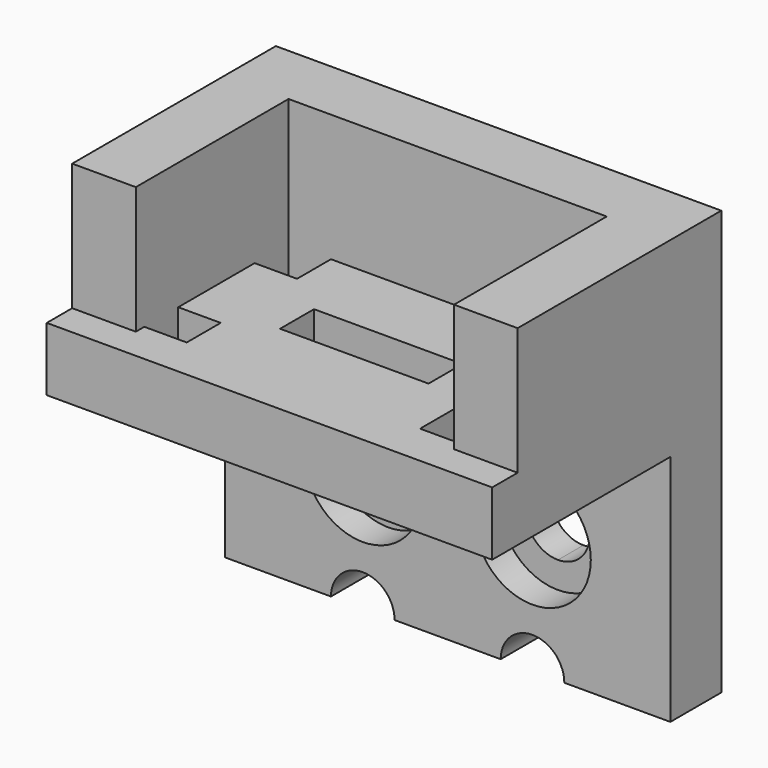
from build123d import *

# Parameters (mm, degrees)
F0_DEPTH = 3
F5_DEPTH = 9
F1_W     = 7
F1_H     = 2
F6_DEPTH = 3
F2_R     = 2.75
F2_R_2   = 1.5
F3_DEPTH = 1.5


with BuildPart() as f0:
    # F4 (on Front) → F0 (new body)
    with BuildSketch(Plane.XZ):
        with BuildLine():
            ThreePointArc((-5.3789273798, 23.6677408814), (-6.4395875516, 26.2284010532), (-3.8789273798, 25.1677408814))
            Line((-3.8789273798, 25.1677408814), (1.1210726202, 25.1677408814))
            ThreePointArc((1.1210726202, 25.1677408814), (2.6210726202, 26.6677408814), (4.1210726202, 25.1677408814))
            ThreePointArc((4.1210726202, 25.1677408814), (3.6817327919, 24.1070807097), (2.6210726202, 23.6677408814))
            Line((2.6210726202, 23.6677408814), (2.6210726202, 21.1677408814))
            ThreePointArc((2.6210726202, 21.1677408814), (3.6817327919, 20.7284010532), (4.1210726202, 19.6677408814))
            Line((4.1210726202, 19.6677408814), (9.1210726202, 19.6677408814))
            Line((9.1210726202, 19.6677408814), (9.1210726202, 30.6677408814))
            Line((9.1210726202, 30.6677408814), (-11.8789273798, 30.6677408814))
            Line((-11.8789273798, 30.6677408814), (-11.8789273798, 19.6677408814))
            Line((-11.8789273798, 19.6677408814), (-6.8789273798, 19.6677408814))
            ThreePointArc((-6.8789273798, 19.6677408814), (-6.4395875516, 20.7284010532), (-5.3789273798, 21.1677408814))
            Line((-5.3789273798, 21.1677408814), (-5.3789273798, 23.6677408814))
        make_face()
        with BuildLine():
            Line((1.1210726202, 25.1677408814), (-3.8789273798, 25.1677408814))
            ThreePointArc((-3.8789273798, 25.1677408814), (-4.3182672081, 24.1070807097), (-5.3789273798, 23.6677408814))
            Line((-5.3789273798, 23.6677408814), (-5.3789273798, 21.1677408814))
            ThreePointArc((-5.3789273798, 21.1677408814), (-4.3182672081, 20.7284010532), (-3.8789273798, 19.6677408814))
            Line((-3.8789273798, 19.6677408814), (1.1210726202, 19.6677408814))
            ThreePointArc((1.1210726202, 19.6677408814), (1.5604124484, 20.7284010532), (2.6210726202, 21.1677408814))
            Line((2.6210726202, 21.1677408814), (2.6210726202, 23.6677408814))
            ThreePointArc((2.6210726202, 23.6677408814), (1.5604124484, 24.1070807097), (1.1210726202, 25.1677408814))
        make_face()
    extrude(amount=F0_DEPTH)

    # F1 (on face) → F5 (join)
    with BuildSketch(Plane.XY.offset(30.6677408814)):
        Polygon((9.1210726202, 0), (-11.8789273798, 0), (-11.8789273798, -3), (-8.8789273798, -3), (-6.8789273798, -3), (4.1210726202, -3), (6.1210726202, -3), (9.1210726202, -3), align=None)
        Polygon((-8.8789273798, -3), (-11.8789273798, -3), (-11.8789273798, -12), (-8.8789273798, -12), (-8.8789273798, -11.5), (-8.8789273798, -9.5), (-8.8789273798, -5), align=None)
        Polygon((9.1210726202, -12), (9.1210726202, -3), (6.1210726202, -3), (6.1210726202, -5), (6.1210726202, -9.5), (6.1210726202, -11.5), (6.1210726202, -12), align=None)
    extrude(amount=F5_DEPTH)

    # F1 (on face) → F6 (join)
    with BuildSketch(Plane.XY.offset(30.6677408814)):
        Polygon((-8.8789273798, -11.5), (-8.8789273798, -12), (4.6210726202, -12), (6.1210726202, -12), (6.1210726202, -11.5), (4.1210726202, -11.5), (4.1210726202, -9.5), (6.1210726202, -9.5), (6.1210726202, -5), (4.1210726202, -5), (4.1210726202, -3), (-6.8789273798, -3), (-6.8789273798, -5), (-8.8789273798, -5), (-8.8789273798, -9.5), (-6.8789273798, -9.5), (-6.8789273798, -11.5), align=None)
        with Locations((-1.3789273798, -7.5)):
            Rectangle(F1_W, F1_H, mode=Mode.SUBTRACT)
        Polygon((-8.8789273798, -12), (-11.8789273798, -12), (-11.8789273798, -13.5), (9.1210726202, -13.5), (9.1210726202, -12), (6.1210726202, -12), (4.6210726202, -12), align=None)
    extrude(amount=F6_DEPTH)

    # F2 (on face) → F3 (cut)
    with BuildSketch(Plane.XZ.offset(3)):
        with Locations((2.6210726202, 25.1677408814)):
            Circle(F2_R)
        with Locations((2.6210726202, 25.1677408814)):
            Circle(F2_R_2, mode=Mode.SUBTRACT)
        with Locations((-5.3789273798, 25.1677408814)):
            Circle(F2_R)
        with Locations((-5.3789273798, 25.1677408814)):
            Circle(F2_R_2, mode=Mode.SUBTRACT)
    extrude(amount=-F3_DEPTH, mode=Mode.SUBTRACT)


solid = f0.part
